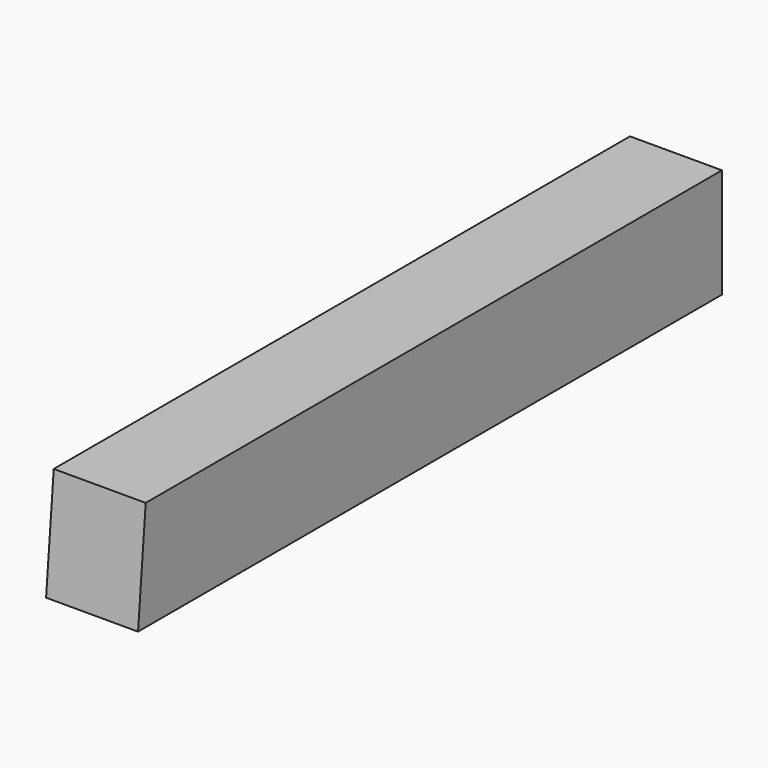
from build123d import *

# Parameters (mm, degrees)
F0_W     = 63
F0_H     = 75
F1_DEPTH = 500
F3_DEPTH = 63.001


with BuildPart() as f1:
    # F0 (on Front) → F1 (new body)
    with BuildSketch(Plane.XZ):
        Rectangle(F0_W, F0_H)
    extrude(amount=F1_DEPTH)

    # F2 (on face) → F3 (cut, through all)
    with BuildSketch(Plane(origin=(-31.5, 0, 0), x_dir=(0, -1, 0), z_dir=(-1, 0, 0))):
        Polygon((493.43835, 37.5), (500, -37.5), (500, 37.5), align=None)
    extrude(amount=-F3_DEPTH, mode=Mode.SUBTRACT)


solid = f1.part
